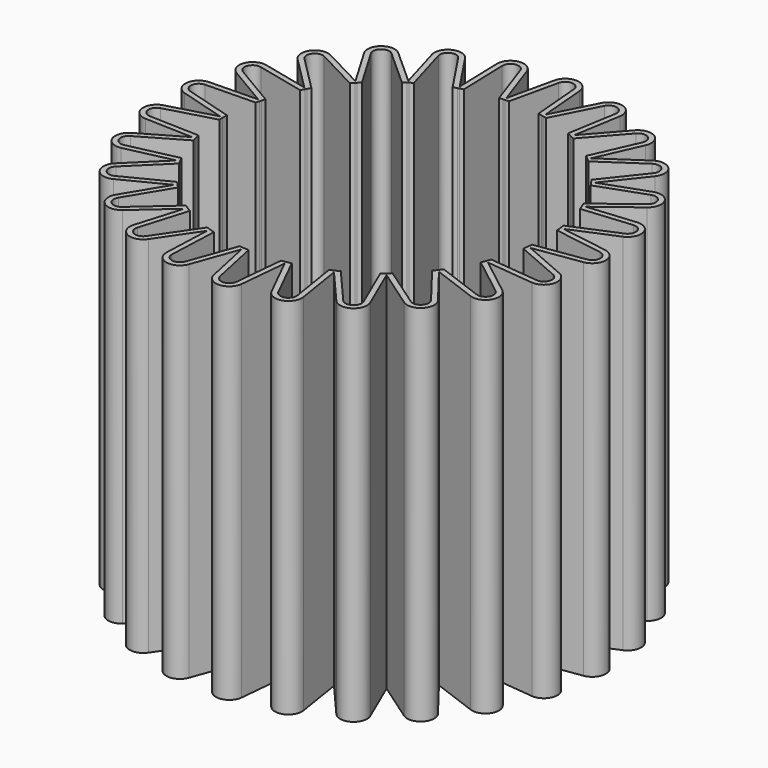
from build123d import *

# Parameters (mm, degrees)
F3_DEPTH = 27
F5_DEPTH = 27.001
F6_COUNT = 25


with BuildPart() as f3:
    # F2 (on offset) → F3 (new body)
    with BuildSketch(Plane.XY.offset(13)):
        with BuildLine():
            Line((-15.647233, 1.063109), (-12, 0))
            ThreePointArc((-12, 0), (-11.897338, 1.566314), (-11.59111, 3.105829))
            Line((-11.59111, 3.105829), (-15.38922, 3.022918))
            ThreePointArc((-15.38922, 3.022918), (-16.35884, 2.153682), (-15.647233, 1.063109))
        make_face()
    extrude(amount=F3_DEPTH)

    # F4 (on face) → F5 (cut, through all)
    with BuildSketch(Plane.XY.offset(40)):
        with BuildLine():
            Line((-11.691487, 2.703542), (-15.38049, 2.623013))
            ThreePointArc((-15.38049, 2.623013), (-15.962262, 2.101472), (-15.535298, 1.447128))
            Line((-15.535298, 1.447128), (-11.992837, 0.414558))
            Line((-11.992837, 0.414558), (-11.691487, 2.703542))
        make_face()
    extrude(amount=-F5_DEPTH, mode=Mode.SUBTRACT)

    # F6: F3 ×25 about axis
    f6_axis = Axis((0, 0, 13), (0, 0, -1))


with BuildPart() as f3_1:
    add(f3.part)
    for i in range(1, F6_COUNT):
        add(f3.part.rotate(f6_axis, i * 360 / F6_COUNT))


solid = f3_1.part
